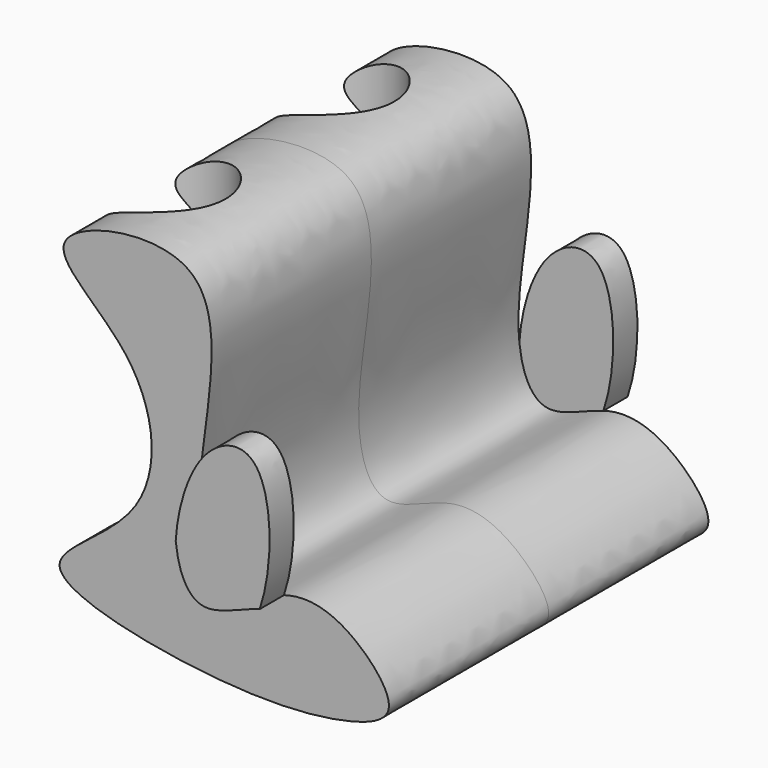
from build123d import *

# Parameters (mm, degrees)
F1_DEPTH = 66
F2_R     = 18.2464033036
F3_DEPTH = 100
F4_DEPTH = 91.4
F6_DEPTH = 10


with BuildPart() as f1:
    # F0 (on Front) → F1 (new body)
    with BuildSketch(Plane.XZ):
        with BuildLine():
            add(Edge.make_bspline(
                [(13.8946259394, -23.0404678732), (22.1100731045, -21.9514476766), (36.3273211983, -29.2895568978), (49.4193025444, -47.4062509344), (27.9970216221, -56.1263444076), (-13.9532122193, -57.8434105934), (-84.3916530448, -42.0870948891), (-29.4138700577, -18.0251151753), (-33.4831233061, 30.8940920349), (-82.5061354632, 57.8003129287), (0.5066204825, 75.7805999578), (-23.7268814584, -2.9826632186), (-12.2075773961, -36.7979161922), (5.6932236687, -24.1276263119), (13.8946259394, -23.0404678732)],
                knots=[0, 0, 0, 0, 0.0699239589, 0.1286222411, 0.1850534428, 0.2861883832, 0.3858406196, 0.4702708625, 0.5651579846, 0.6484261656, 0.7408702245, 0.85614396, 0.9301955811, 1, 1, 1, 1], degree=3))
        make_face()
    extrude(amount=F1_DEPTH)

    # F2 (on Top) → F3 (cut)
    with BuildSketch(Plane.XY):
        with Locations((-52.5313280523, -34.8642617464)):
            Circle(F2_R)
    extrude(amount=-F3_DEPTH, mode=Mode.SUBTRACT)

    # F2 (on Top) → F4 (cut)
    with BuildSketch(Plane.XY):
        with Locations((-52.5313280523, -34.8642617464)):
            Circle(F2_R)
    extrude(amount=F4_DEPTH, mode=Mode.SUBTRACT)

    # F7: F1, F6 across plane


with BuildPart() as f6:
    # F5 (on face) → F6 (new body)
    with BuildSketch(Plane.XZ.offset(66)):
        with BuildLine():
            add(Edge.make_bspline(
                [(-17.8451454855, -13.1079816954), (-16.8928880685, -22.0956582152), (-10.6544187181, -34.1044840031), (2.9774573605, -25.9088318023), (9.9254555112, -23.9023413067)],
                knots=[0.8734914335, 0.8734914335, 0.8734914335, 0.8734914335, 0.9301955811, 0.9888078108, 0.9888078108, 0.9888078108, 0.9888078108], degree=3))
            add(Edge.make_bspline(
                [(9.9254555228, -23.902341323), (14.6500569267, -10.0038420856), (14.0998292834, 26.2083831135), (-10.7426165006, 18.8012920966), (-17.2497847918, -3.4001672956), (-17.8451454855, -13.1079816954)],
                knots=[0.0671644751, 0.0671644751, 0.0671644751, 0.0671644751, 0.3159786013, 0.5050213762, 0.6704635812, 0.6704635812, 0.6704635812, 0.6704635812], degree=3))
        make_face()
    extrude(amount=F6_DEPTH)


with BuildPart() as f1_1:
    add(f1.part)
    add(f1.part.mirror(Plane.XZ))
    add(f6.part.mirror(Plane.XZ))


solid = Compound([f6.part, f1_1.part])
